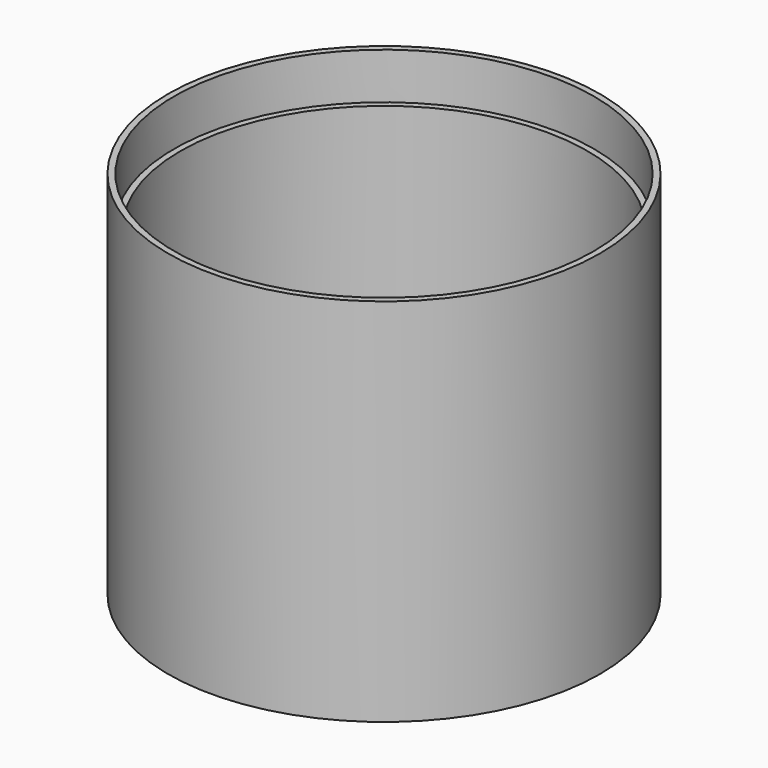
from build123d import *

# Parameters (mm, degrees)
F0_R     = 70
F1_DEPTH = 120
F2_T     = -4
F3_R     = 68
F4_DEPTH = 15


with BuildPart() as f1:
    # F0 (on Top) → F1 (new body)
    with BuildSketch(Plane.XY):
        Circle(F0_R)
    extrude(amount=F1_DEPTH)

    # F2
    f2_openings = [f1.faces().sort_by_distance(p)[0] for p in [
        (0, 0, 120),
    ]]
    offset(amount=F2_T, openings=f2_openings)

    # F3 (on face) → F4 (cut)
    with BuildSketch(Plane.XY.offset(120)):
        Circle(F3_R)
    extrude(amount=-F4_DEPTH, mode=Mode.SUBTRACT)


solid = f1.part
